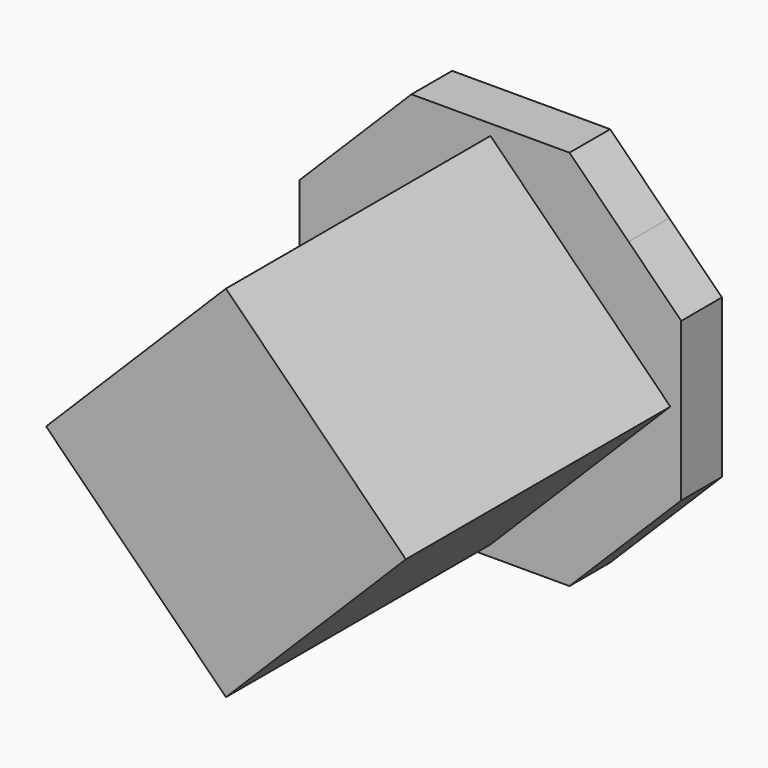
from build123d import *

# Parameters (mm, degrees)
F1_DEPTH = 20
F2_W     = 100
F2_H     = 100
F3_DEPTH = 21
F5_DEPTH = 130


with BuildPart() as f1:
    # F0 (on Front) → F1 (new body)
    with BuildSketch(Plane.XZ):
        Polygon((-31.066017178, -75), (31.066017178, -75), (53.033008589, -53.033008589), (-53.033008589, -53.033008589), align=None)
        Polygon((54.3077377365, 51.7582794414), (53.033008589, -53.033008589), (75, -31.066017178), (75, 31.066017178), align=None)
        Polygon((-53.033008589, -53.033008589), (53.033008589, -53.033008589), (54.3077377365, 51.7582794414), (-53.033008589, 53.033008589), align=None)
        Polygon((-75, -31.066017178), (-53.033008589, -53.033008589), (-53.033008589, 53.033008589), (-75, 31.066017178), align=None)
        Polygon((-53.033008589, 53.033008589), (54.3077377365, 51.7582794414), (31.066017178, 75), (-31.066017178, 75), align=None)
    extrude(amount=-F1_DEPTH)

    # F2 (on face) → F3 (join)
    with BuildSketch(Plane.XZ):
        Rectangle(F2_W, F2_H)
    extrude(amount=-F3_DEPTH)

    # F4 (on face) → F5 (join)
    with BuildSketch(Plane.XZ):
        Polygon((0, 70.7106781187), (-35.3553390593, 35.3553390593), (-70.7106781187, 0), (0, -70.7106781187), (70.7106781187, 0), align=None)
    extrude(amount=F5_DEPTH)


solid = f1.part
